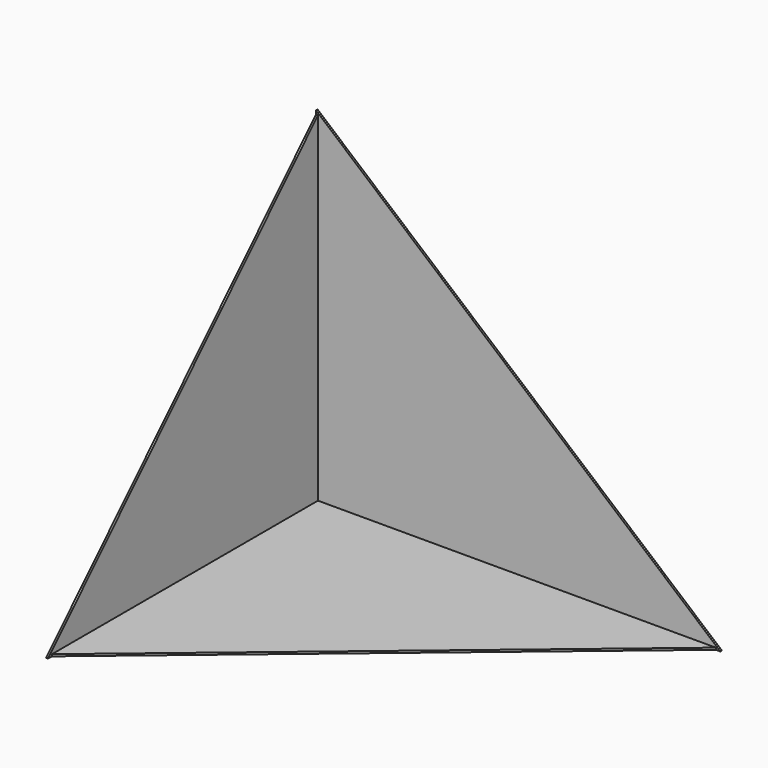
from build123d import *

# Parameters (mm, degrees)
F1_DEPTH = 0.254
F3_DEPTH = 0.254
F5_DEPTH = 0.254


with BuildPart() as f1:
    # F0 (on Front) → F1 (new body)
    with BuildSketch(Plane.XZ):
        Polygon((0, 44.969123), (0, 0), (52.707318, 0), align=None)
    extrude(amount=F1_DEPTH)

    # F2 (on Right) → F3 (join)
    with BuildSketch(Plane.YZ):
        Polygon((-44.229742, 0), (0, 0), (0, 44.73836), align=None)
    extrude(amount=F3_DEPTH)

    # F4 (on Top) → F5 (join)
    with BuildSketch(Plane.XY):
        Polygon((0, 0), (0, -43.801095), (52.415315, 0), align=None)
    extrude(amount=F5_DEPTH)


solid = f1.part
